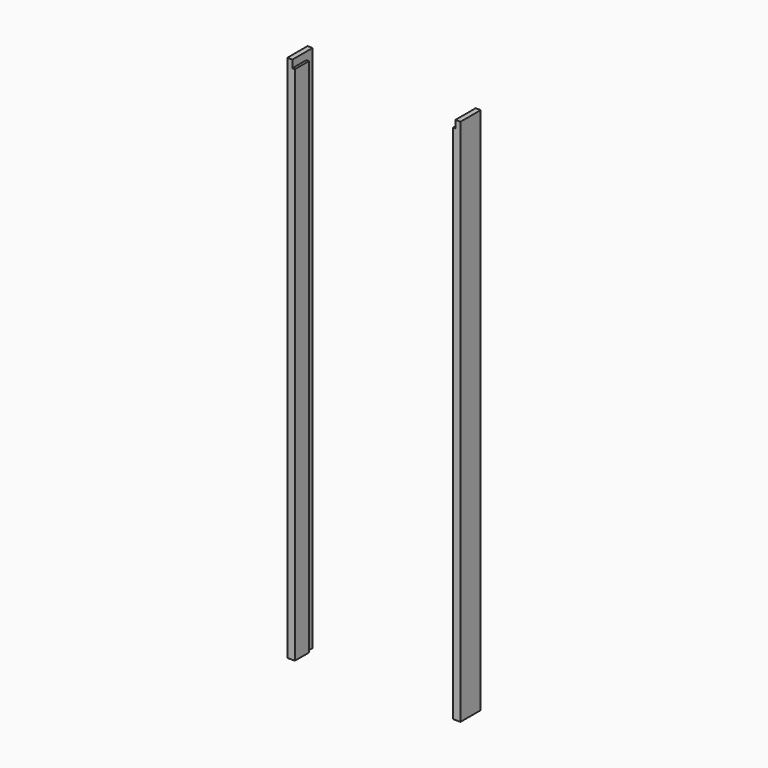
from build123d import *

# Parameters (mm, degrees)
F1_DEPTH = 2715
F2_W     = 838
F2_H     = 39
F3_DEPTH = 130


with BuildPart() as f1:
    # F0 (on Top) → F1 (new body)
    with BuildSketch(Plane.XY):
        Polygon((-419, 40), (-445, 40), (-445, -90), (-406, -90), (-406, 0), (-419, 0), align=None)
        Polygon((445, 40), (419, 40), (419, 0), (406, 0), (406, -90), (445, -90), align=None)
    extrude(amount=F1_DEPTH)

    # F2 (on face) → F3 (cut)
    with BuildSketch(Plane.XZ.offset(90)):
        with Locations((0, 2695.5)):
            Rectangle(F2_W, F2_H)
    extrude(amount=-F3_DEPTH, mode=Mode.SUBTRACT)


solid = f1.part
